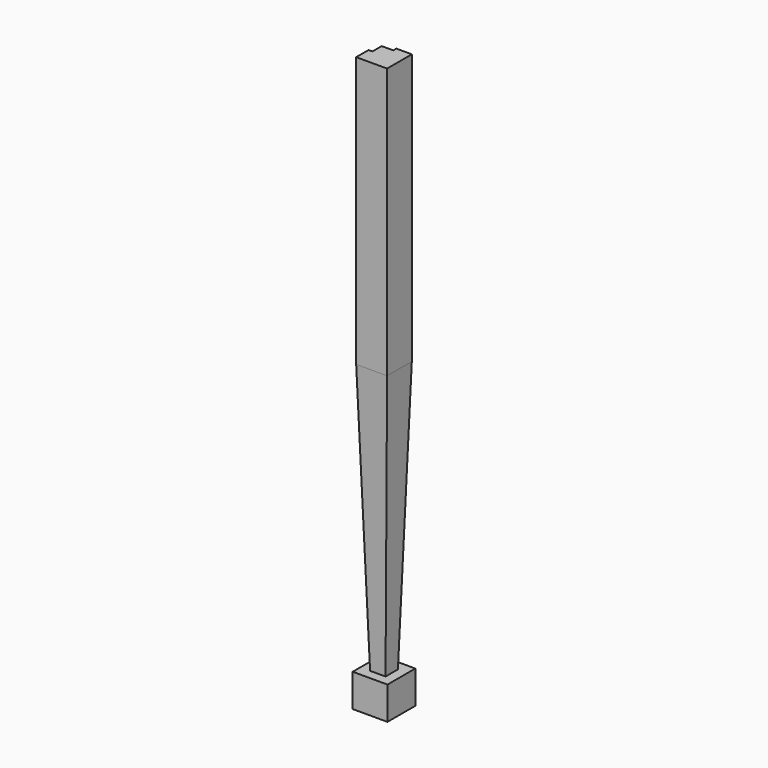
from build123d import *

# Parameters (mm, degrees)
F1_DEPTH  = 57.15
F2_DEPTH  = 50.8
F3_W      = 50.8
F3_H      = 50.8
F2_FACE_W = 101.6
F2_FACE_H = 101.6
F6_DEPTH  = 381


with BuildPart() as f1:
    # F0 (on Front) → F1 (new body, symmetric)
    with BuildSketch(Plane.XZ):
        Polygon((-417.117681, -889), (-467.917681, -889), (-499.667681, -889), (-499.667681, -997.087122), (-385.367681, -997.087122), (-385.367681, -889), align=None)
    extrude(amount=F1_DEPTH, both=True)


with BuildPart() as f2:
    # F0 (on Front) → F2 (new body, symmetric)
    with BuildSketch(Plane.XZ):
        Polygon((-391.717681, 889), (-493.317681, 889), (-493.317681, 0), (-467.917681, 0), (-417.117681, 0), (-391.717681, 0), align=None)
    extrude(amount=F2_DEPTH, both=True)

    # F5 (on face) → F6 (cut)
    with BuildSketch(Plane.XY.offset(889)):
        Polygon((-480.617681, 38.1), (-442.517681, 38.1), (-442.517681, 50.8), (-493.317681, 50.8), (-493.317681, 0), (-480.617681, 0), align=None)
    extrude(amount=-F6_DEPTH, mode=Mode.SUBTRACT)


with BuildPart() as f4:
    # F3 (on face) → F4 section 0
    with BuildSketch(Plane.XY.offset(-889)):
        with Locations((-442.517681, 0)):
            Rectangle(F3_W, F3_H)
    # F2_face (on face) → F4 section 1
    with BuildSketch(Plane(origin=(-442.517681, 0, 0), x_dir=(1, 0, 0), z_dir=(0, 0, -1))):
        Rectangle(F2_FACE_W, F2_FACE_H)
    loft()


solid = Compound([f1.part, f2.part, f4.part])
